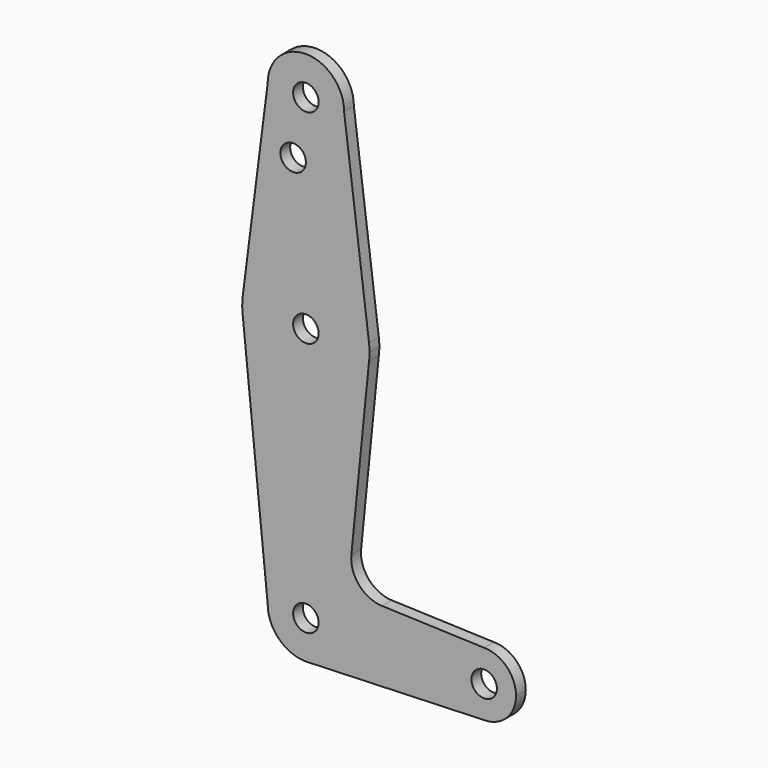
from build123d import *

# Parameters (mm, degrees)
F0_R     = 3.175
F1_DEPTH = 3.048


with BuildPart() as f1:
    # F0 (on Front) → F1 (new body)
    with BuildSketch(Plane.XZ):
        with BuildLine():
            ThreePointArc((-9.525, 50.8), (0, 41.275), (9.525, 50.8))
            ThreePointArc((9.525, 50.8), (0, 60.325), (-9.525, 50.8))
        make_face()
        with Locations((0, 50.8)):
            Circle(F0_R, mode=Mode.SUBTRACT)
        with BuildLine():
            ThreePointArc((-15.747457, 2.008289), (0, 15.875), (15.747457, 2.008289))
            Line((15.747457, 2.008289), (9.525, 50.8))
            ThreePointArc((9.525, 50.8), (0, 41.275), (-9.525, 50.8))
            Line((-9.525, 50.8), (-15.747457, 2.008289))
        make_face()
        with Locations((-3.175, 36.5252)):
            Circle(F0_R, mode=Mode.SUBTRACT)
        with BuildLine():
            ThreePointArc((15.747457, -2.008289), (15.843082, -1.006168), (15.875, 0))
            ThreePointArc((15.875, 0), (15.843082, 1.006168), (15.747457, 2.008289))
            ThreePointArc((15.747457, 2.008289), (0, 15.875), (-15.747457, 2.008289))
            ThreePointArc((-15.747457, 2.008289), (-15.873668, 0.205667), (-15.794203, -1.59962))
            ThreePointArc((-15.794203, -1.59962), (-0.205667, -15.873668), (15.747457, -2.008289))
        make_face()
        Circle(F0_R, mode=Mode.SUBTRACT)
        with BuildLine():
            Line((11.33887, -45.912898), (15.747457, -2.008289))
            ThreePointArc((15.747457, -2.008289), (-0.205667, -15.873668), (-15.794203, -1.59962))
            Line((-15.794203, -1.59962), (-9.525, -63.5))
            ThreePointArc((-9.525, -63.5), (-6.735192, -56.764808), (0, -53.975))
            ThreePointArc((0, -53.975), (0.339962, -53.981069), (0.67949, -53.999268))
            ThreePointArc((0.67949, -53.999268), (6.97129, -57.009489), (9.525, -63.5))
            ThreePointArc((9.525, -63.5), (6.854788, -70.113434), (0.341271, -73.018884))
            Line((0.341271, -73.018884), (44.45, -71.4375))
            ThreePointArc((44.45, -71.4375), (36.5125, -63.5), (44.45, -55.5625))
            Line((44.45, -55.5625), (18.965536, -54.652341))
            ThreePointArc((18.965536, -54.652341), (13.259249, -51.934546), (11.33887, -45.912898))
        make_face()
        with BuildLine():
            ThreePointArc((52.3875, -63.5), (50.06266, -57.88734), (44.45, -55.5625))
            ThreePointArc((44.45, -55.5625), (36.5125, -63.5), (44.45, -71.4375))
            ThreePointArc((44.45, -71.4375), (50.06266, -69.11266), (52.3875, -63.5))
        make_face()
        with Locations((44.45, -63.5)):
            Circle(F0_R, mode=Mode.SUBTRACT)
        with BuildLine():
            ThreePointArc((0, -53.975), (-6.735192, -56.764808), (-9.525, -63.5))
            ThreePointArc((-9.525, -63.5), (-6.613434, -70.354788), (0.341271, -73.018884))
            ThreePointArc((0.341271, -73.018884), (6.854788, -70.113434), (9.525, -63.5))
            ThreePointArc((9.525, -63.5), (6.97129, -57.009489), (0.67949, -53.999268))
            Line((0.67949, -53.999268), (0, -53.975))
        make_face()
        with Locations((0, -63.5)):
            Circle(F0_R, mode=Mode.SUBTRACT)
    extrude(amount=F1_DEPTH)


solid = f1.part
